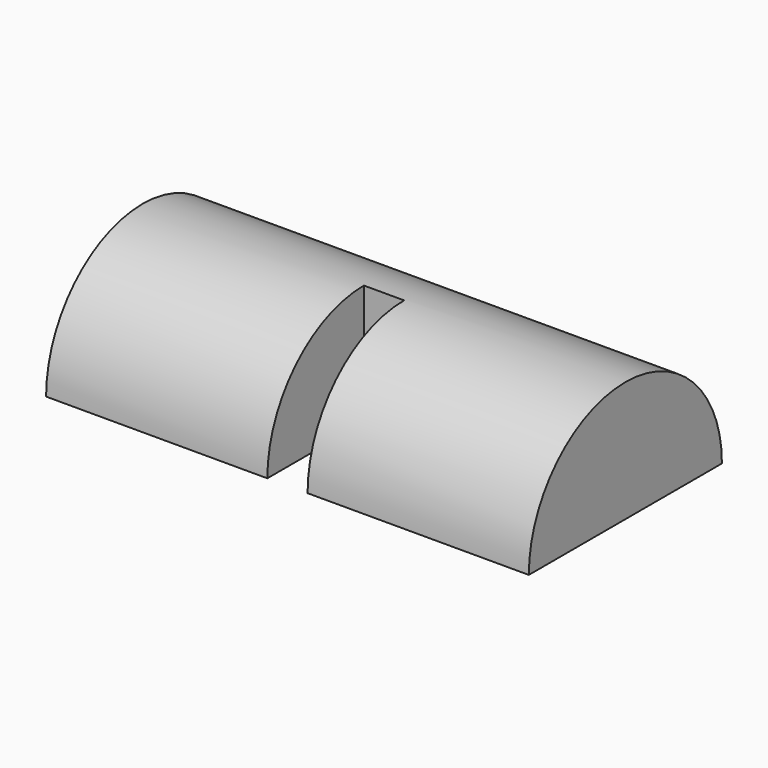
from build123d import *

# Parameters (mm, degrees)
F1_DEPTH = 152.4
F2_W     = 12.700002
F2_H     = 38.1
F3_DEPTH = 38.101


with BuildPart() as f1:
    # F0 (on Right) → F1 (new body)
    with BuildSketch(Plane.YZ):
        with BuildLine():
            Line((-38.1, 0), (38.1, 0))
            ThreePointArc((38.1, 0), (0, 38.1), (-38.1, 0))
        make_face()
    extrude(amount=-F1_DEPTH)

    # F2 (on face) → F3 (cut, through all)
    with BuildSketch(Plane(origin=(0, 0, 0), x_dir=(1, 0, 0), z_dir=(0, 0, -1))):
        with Locations((-76.199999, 19.05)):
            Rectangle(F2_W, F2_H)
    extrude(amount=-F3_DEPTH, mode=Mode.SUBTRACT)


solid = f1.part
